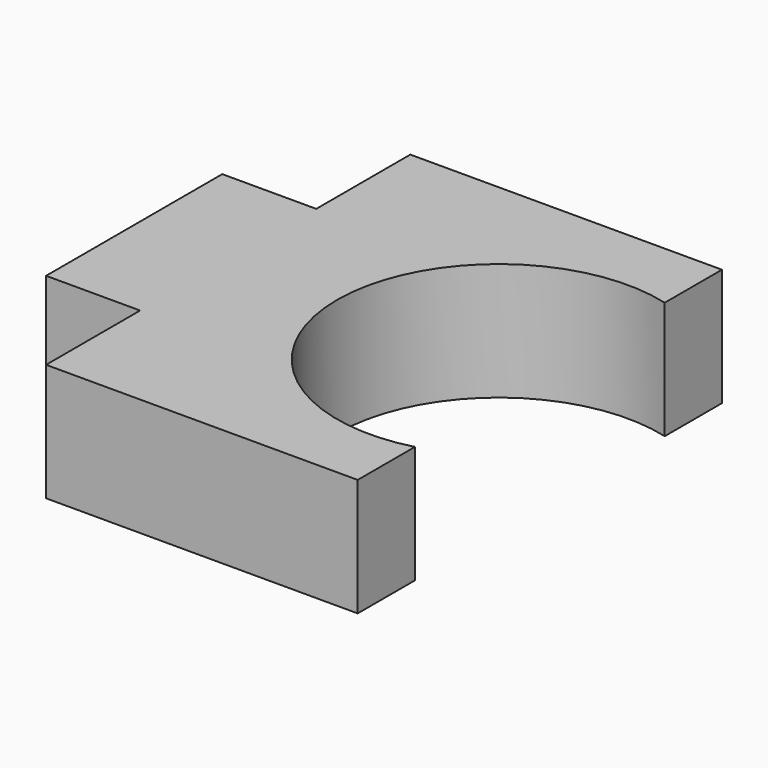
from build123d import *

# Parameters (mm, degrees)
F1_DEPTH = 25


with BuildPart() as f1:
    # F0 (on Top) → F1 (new body)
    with BuildSketch(Plane.XY):
        with BuildLine():
            Line((32.09034, 33.209568), (32.09034, 48.417067))
            Line((32.09034, 48.417067), (-34.191456, 48.417067))
            Line((-34.191456, 48.417067), (-34.191667, 23.417067))
            Line((-34.191667, 23.417067), (-54.191667, 23.417236))
            Line((-54.191667, 23.417236), (-54.19166, -23.416399))
            Line((-54.19166, -23.416399), (-34.19166, -23.416568))
            Line((-34.19166, -23.416568), (-34.19166, -48.416568))
            Line((-34.19166, -48.416568), (32.09034, -48.416568))
            Line((32.09034, -48.416568), (32.09034, -33.209568))
            ThreePointArc((32.09034, -33.209568), (-11.042779, 0), (32.09034, 33.209568))
        make_face()
    extrude(amount=F1_DEPTH)


solid = f1.part
